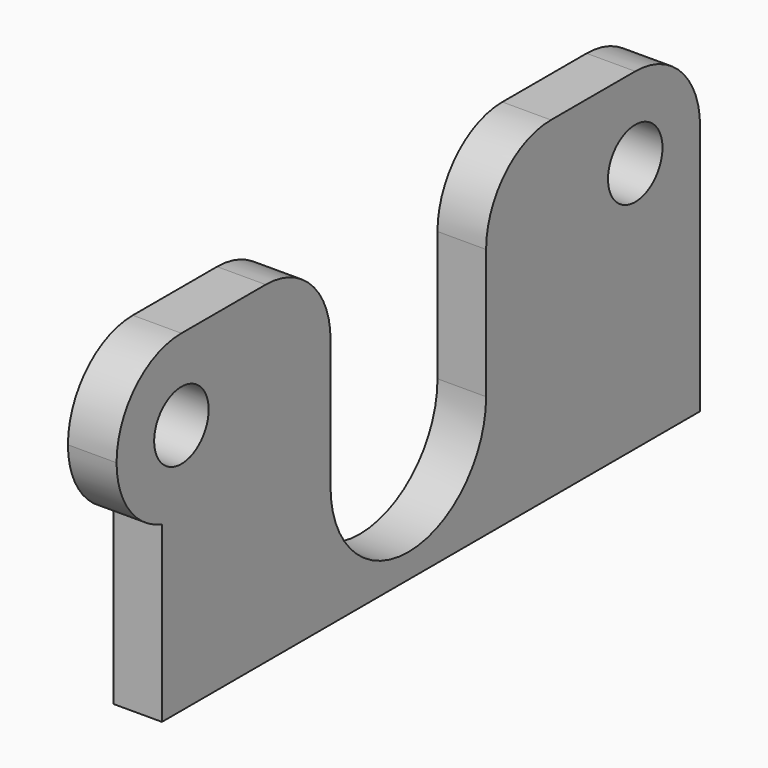
from build123d import *

# Parameters (mm, degrees)
SKETCH_R  = 2.1
PAD_DEPTH = 3


with BuildPart() as part:
    # Sketch → Pad (new body)
    with BuildSketch(Plane.YZ):
        with BuildLine():
            ThreePointArc((-17.5, 19), (-21.035534, 17.535534), (-22.5, 14))
            ThreePointArc((-22.5, 14), (-21.531129, 11.04196), (-19, 9.230304))
            Line((-19, 9.230304), (-19, -1.5))
            Line((-19, -1.5), (22.5, -1.5))
            Line((22.5, 14), (22.5, -1.5))
            ThreePointArc((22.5, 14), (21.035534, 17.535534), (17.5, 19))
            Line((11, 19), (17.5, 19))
            ThreePointArc((11, 19), (7.464466, 17.535534), (6, 14))
            Line((6, 6), (6, 14))
            ThreePointArc((-6, 6), (0, 0), (6, 6))
            Line((-6, 6), (-6, 14))
            ThreePointArc((-6, 14), (-7.464466, 17.535534), (-11, 19))
            Line((-17.5, 19), (-11, 19))
        make_face()
        with Locations((-17.5, 14)):
            Circle(SKETCH_R, mode=Mode.SUBTRACT)
        with Locations((17.5, 14)):
            Circle(SKETCH_R, mode=Mode.SUBTRACT)
    extrude(amount=PAD_DEPTH)


solid = part.part
